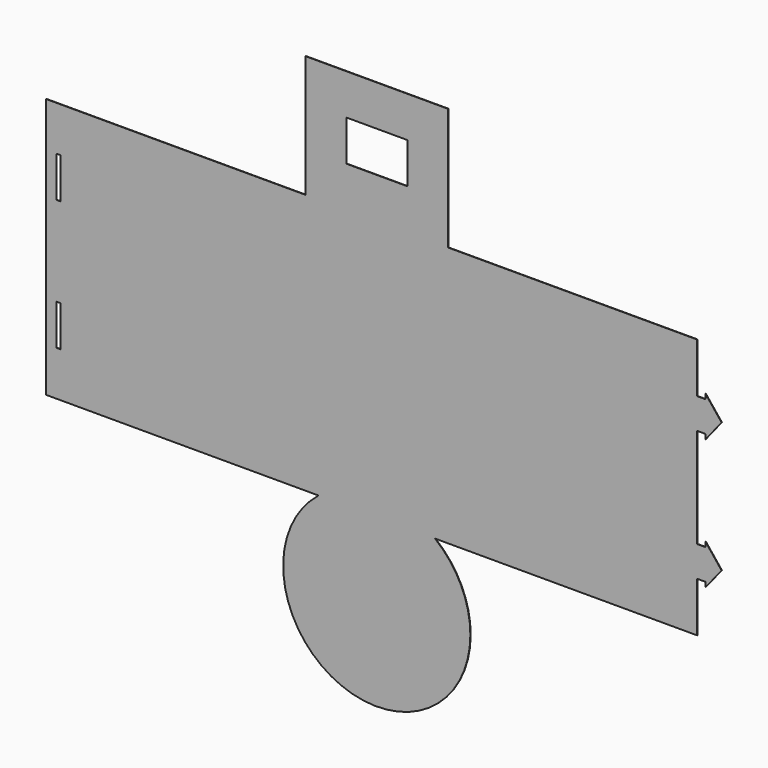
from build123d import *

# Parameters (mm, degrees)
F0_W     = 2.54
F0_H     = 25.4
F0_W_2   = 5.08
F0_H_2   = 19.05
F0_W_3   = 88.9
F0_H_3   = 76.2
F0_W_4   = 38.1
F1_DEPTH = 0.254


with BuildPart() as f1:
    # F0 (on Front) → F1 (new body)
    with BuildSketch(Plane.XZ):
        with BuildLine():
            Line((-44.45, 64.4189420235), (-206.411307435, 64.4189420235))
            Line((-206.411307435, 64.4189420235), (-206.411307435, -98.1410579765))
            Line((-206.411307435, -98.1410579765), (-36.3672655007, -98.1410579765))
            ThreePointArc((-36.3672655007, -98.1410579765), (0, -85.4410579765), (36.3672655007, -98.1410579765))
            Line((36.3672655007, -98.1410579765), (199.988692565, -98.1410579765))
            Line((199.988692565, -98.1410579765), (199.988692565, -67.0260579765))
            Line((199.988692565, -67.0260579765), (199.988692565, -47.9760579765))
            Line((199.988692565, -47.9760579765), (199.988692565, 14.2539420235))
            Line((199.988692565, 14.2539420235), (199.988692565, 33.3039420235))
            Line((199.988692565, 33.3039420235), (199.988692565, 64.4189420235))
            Line((199.988692565, 64.4189420235), (44.45, 64.4189420235))
            Line((44.45, 64.4189420235), (-44.45, 64.4189420235))
        make_face()
        with Locations((-198.791307435, -57.5010579765)):
            Rectangle(F0_W, F0_H, mode=Mode.SUBTRACT)
        with Locations((-198.791307435, 23.7789420235)):
            Rectangle(F0_W, F0_H, mode=Mode.SUBTRACT)
        Polygon((205.068692565, 36.4789420235), (205.068692565, 33.3039420235), (205.068692565, 14.2539420235), (205.068692565, 11.0789420235), (215.228692565, 23.7789420235), align=None)
        with Locations((202.528692565, 23.7789420235)):
            Rectangle(F0_W_2, F0_H_2)
        with Locations((202.528692565, -57.5010579765)):
            Rectangle(F0_W_2, F0_H_2)
        Polygon((205.068692565, -47.9760579765), (205.068692565, -67.0260579765), (205.068692565, -70.2010579765), (215.228692565, -57.5010579765), (205.068692565, -44.8010579765), align=None)
        with BuildLine():
            Line((36.3672655007, -98.1410579765), (-36.3672655007, -98.1410579765))
            ThreePointArc((-36.3672655007, -98.1410579765), (-25.3803147089, -196.4798381341), (58.42, -143.8610579765))
            ThreePointArc((58.42, -143.8610579765), (52.6187801576, -118.4807432676), (36.3672655007, -98.1410579765))
        make_face()
        with BuildLine():
            ThreePointArc((36.3672655007, -98.1410579765), (0, -85.4410579765), (-36.3672655007, -98.1410579765))
            Line((-36.3672655007, -98.1410579765), (36.3672655007, -98.1410579765))
        make_face()
        with Locations((0, 102.5189420235)):
            Rectangle(F0_W_3, F0_H_3)
        with Locations((0, 102.5189420235)):
            Rectangle(F0_W_4, F0_H, mode=Mode.SUBTRACT)
    extrude(amount=F1_DEPTH)


solid = f1.part
